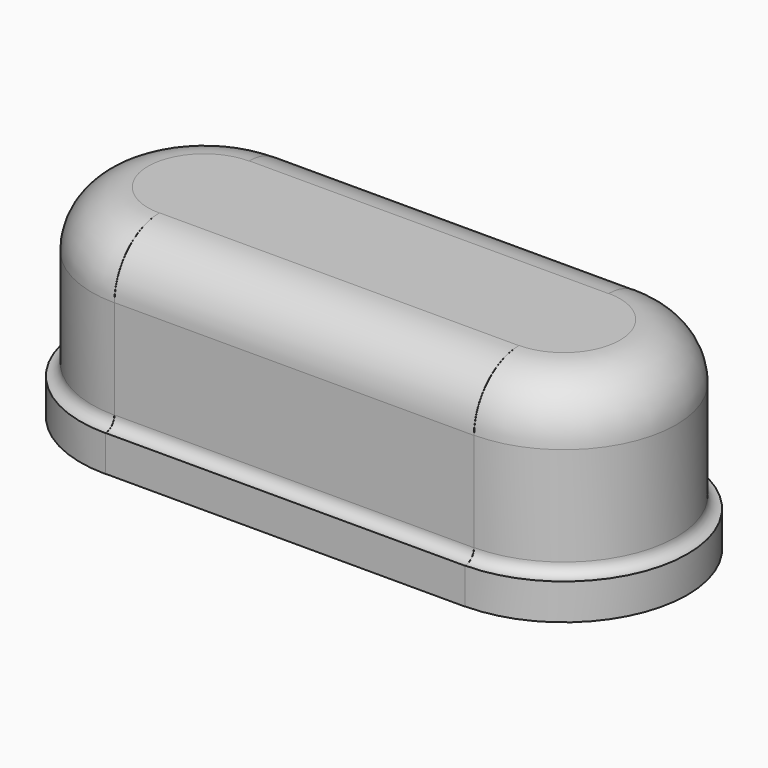
from build123d import *

# Parameters (mm, degrees)
REVOLUTION001_ANGLE   = 180
CLONE_PLACEMENT_ANGLE = 180
PAD001_DEPTH          = 3.2


with BuildPart() as obj1:
    # Sketch001 → Revolution001 (revolve)
    with BuildSketch(Plane(origin=(3.195, 0.005, 0), x_dir=(0, 1, 0), z_dir=(1, 0, 0))):
        with BuildLine():
            Line((0, 4.24), (-1, 4.24))
            ThreePointArc((-1, 4.24), (-1.707107, 3.947107), (-2, 3.24))
            Line((-2, 3.24), (-2, 1.48))
            ThreePointArc((-2.2, 1.28), (-2.058579, 1.338579), (-2, 1.48))
            Line((-2.2, 1.28), (-2.2, 0.64))
            Line((-2.2, 0.64), (0, 0.64))
            Line((0, 4.24), (0, 0.64))
        make_face()
    revolve(axis=Axis((3.195, 0.005, 0), (0, 0, 1)), revolution_arc=REVOLUTION001_ANGLE)


with BuildPart() as clone:
    # Clone base: copy of obj1
    add(obj1.part)


with BuildPart() as clone_1:
    # Clone placement: moved
    add(clone.part.moved(Location((0, 0, 0))).rotate(Axis((0, 0, 0), (0, 0, 1)), CLONE_PLACEMENT_ANGLE))


with BuildPart() as pad001:
    # Sketch002 → Pad001 (new body, symmetric)
    with BuildSketch(Plane.YZ):
        with BuildLine():
            Line((0, 4.24), (-1, 4.24))
            ThreePointArc((-1, 4.24), (-1.707107, 3.947107), (-2, 3.24))
            Line((-2, 3.24), (-2, 1.48))
            ThreePointArc((-2.2, 1.28), (-2.058579, 1.338579), (-2, 1.48))
            Line((-2.2, 1.28), (-2.2, 0.64))
            Line((-2.2, 0.64), (0, 0.64))
            Line((0, 4.24), (0, 0.64))
        make_face()
    extrude(amount=PAD001_DEPTH, both=True)


with BuildPart() as obj2:
    # Part__Mirroring: instance of Pad001
    add(pad001.part.mirror(Plane(origin=(0, 0, 0), x_dir=(1, 0, 0), z_dir=(0, 1, 0))))

    # Fusion: union Pad001
    add(pad001.part)

    # Fusion001: union Clone, obj1
    add(clone_1.part)
    add(obj1.part)


solid = obj2.part
